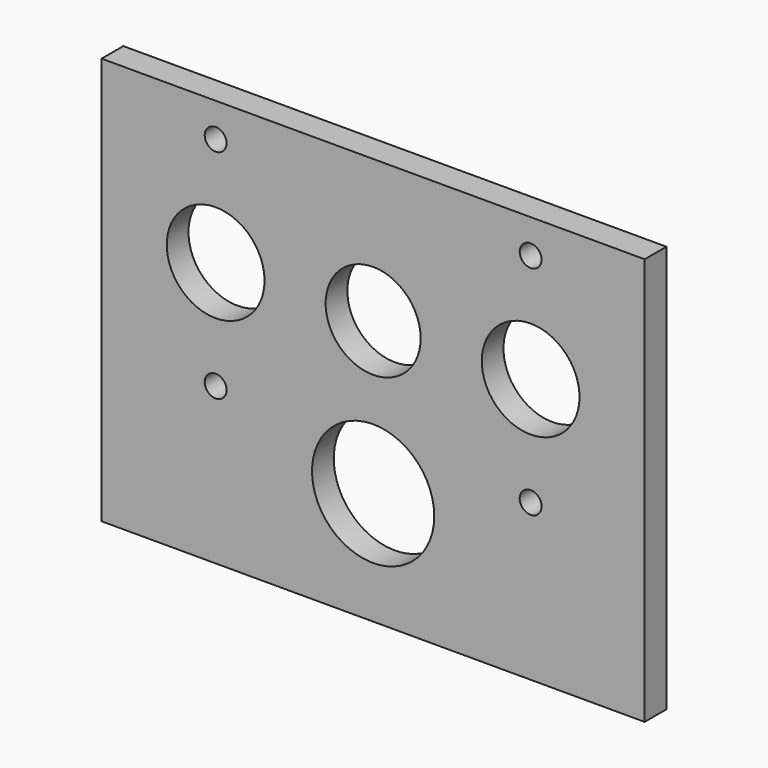
from build123d import *

# Parameters (mm, degrees)
F0_W     = 127
F0_H     = 95.25
F0_R     = 2.5527
F0_R_2   = 14.2875
F0_R_3   = 11.43
F0_R_4   = 11.1125
F1_DEPTH = 6.35


with BuildPart() as f1:
    # F0 (on Front) → F1 (new body)
    with BuildSketch(Plane.XZ):
        Rectangle(F0_W, F0_H)
        with Locations((-36.83, -11.1125)):
            Circle(F0_R, mode=Mode.SUBTRACT)
        with Locations((0, -21.2725)):
            Circle(F0_R_2, mode=Mode.SUBTRACT)
        with Locations((36.83, -11.1125)):
            Circle(F0_R, mode=Mode.SUBTRACT)
        with Locations((-36.83, 14.2875)):
            Circle(F0_R_3, mode=Mode.SUBTRACT)
        with Locations((-36.83, 39.6875)):
            Circle(F0_R, mode=Mode.SUBTRACT)
        with Locations((0, 14.2875)):
            Circle(F0_R_4, mode=Mode.SUBTRACT)
        with Locations((36.83, 14.2875)):
            Circle(F0_R_3, mode=Mode.SUBTRACT)
        with Locations((36.83, 39.6875)):
            Circle(F0_R, mode=Mode.SUBTRACT)
    extrude(amount=F1_DEPTH)


solid = f1.part
